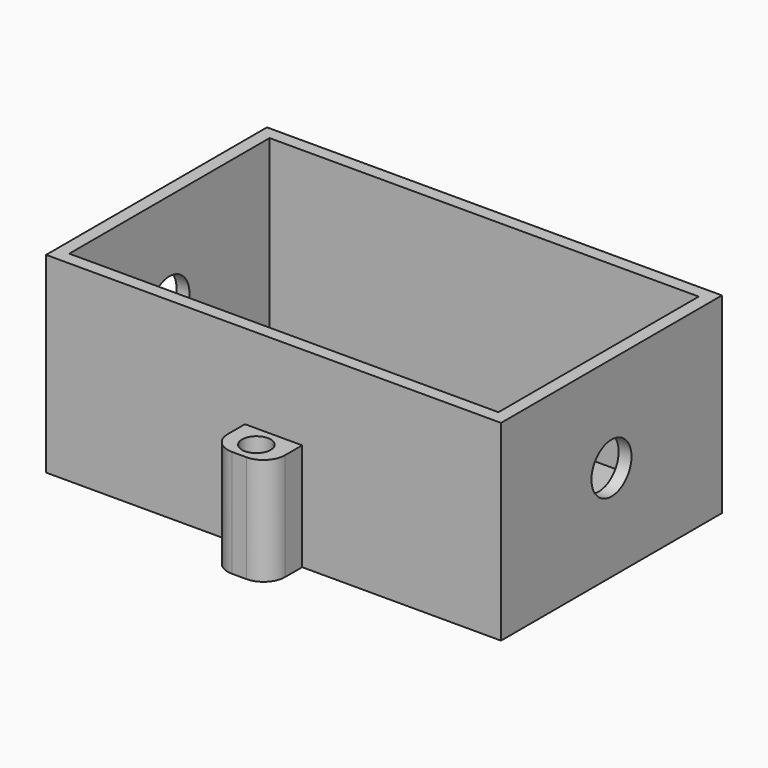
from build123d import *

# Parameters (mm, degrees)
F0_W     = 60
F0_H     = 35
F1_DEPTH = 1.8
F3_DEPTH = 25
F0_R     = 2
F4_DEPTH = 15
F5_R     = 3.5
F6_DEPTH = 63.601


with BuildPart() as f1:
    # F0 (on Top) → F1 (new body)
    with BuildSketch(Plane.XY):
        Polygon((26, 36.8), (-1.8, 36.8), (-1.8, -1.8), (26, -1.8), (34, -1.8), (61.8, -1.8), (61.8, 36.8), (34, 36.8), align=None)
        with Locations((30, 17.5)):
            Rectangle(F0_W, F0_H, mode=Mode.SUBTRACT)
        with Locations((30, 17.5)):
            Rectangle(F0_W, F0_H)
    extrude(amount=F1_DEPTH)

    # F2 (on face) → F3 (join)
    with BuildSketch(Plane.XY.offset(1.8)):
        Polygon((-1.8, -1.8), (15.426563, -1.8), (61.8, -1.8), (61.8, 36.8), (-1.8, 36.8), align=None)
        Polygon((16.889177, 0), (0, 0), (0, 35), (60, 35), (60, 0), align=None, mode=Mode.SUBTRACT)
    extrude(amount=F3_DEPTH)

    # F0 (on Top) → F4 (join)
    with BuildSketch(Plane.XY):
        with BuildLine():
            Line((34, -1.8), (26, -1.8))
            Line((26, -1.8), (26, -4.8))
            ThreePointArc((26, -4.8), (26.87868, -6.92132), (29, -7.8))
            Line((29, -7.8), (31, -7.8))
            ThreePointArc((31, -7.8), (33.12132, -6.92132), (34, -4.8))
            Line((34, -4.8), (34, -1.8))
        make_face()
        with Locations((30, -4.8)):
            Circle(F0_R, mode=Mode.SUBTRACT)
        with BuildLine():
            Line((26, 39.8), (26, 36.8))
            Line((26, 36.8), (34, 36.8))
            Line((34, 36.8), (34, 39.8))
            ThreePointArc((34, 39.8), (33.12132, 41.92132), (31, 42.8))
            Line((31, 42.8), (29, 42.8))
            ThreePointArc((29, 42.8), (26.87868, 41.92132), (26, 39.8))
        make_face()
        with Locations((30, 39.8)):
            Circle(F0_R, mode=Mode.SUBTRACT)
    extrude(amount=F4_DEPTH)

    # F5 (on face) → F6 (cut, through all)
    with BuildSketch(Plane.YZ.offset(61.8)):
        with Locations((17.5, 13.4)):
            Circle(F5_R)
    extrude(amount=-F6_DEPTH, mode=Mode.SUBTRACT)


solid = f1.part
